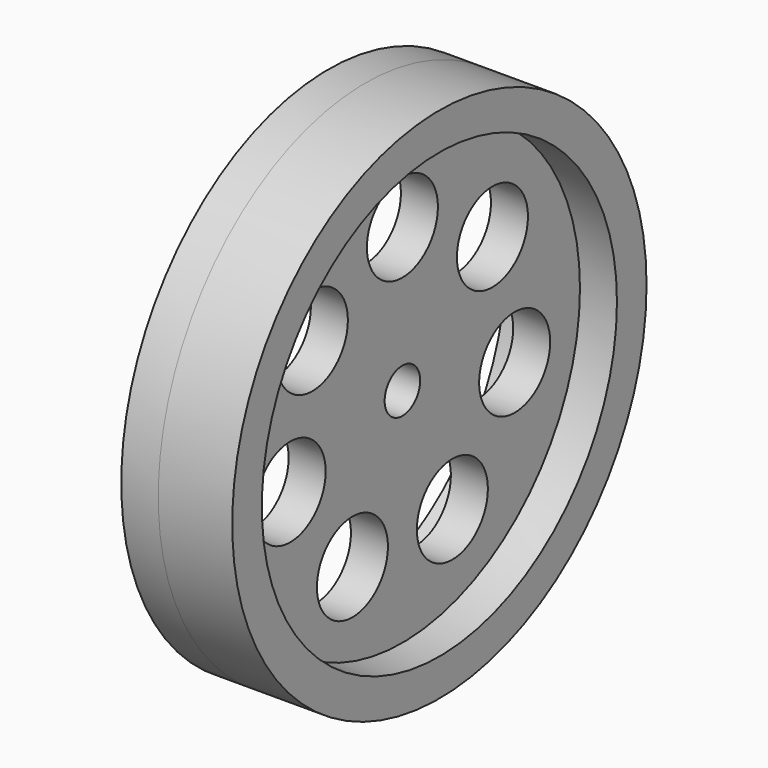
from build123d import *

# Parameters (mm, degrees)
F0_R          = 35
F0_R_2        = 6
F0_R_3        = 3
F1_DEPTH      = 5
F2_R          = 35
F2_R_2        = 30
F3_DEPTH      = 10
F3_DEPTH_BACK = 5


with BuildPart() as f1:
    # F0 (on Right) → F1 (new body)
    with BuildSketch(Plane.YZ):
        Circle(F0_R)
        with Locations((-8.441722, -17.529416)):
            Circle(F0_R_2, mode=Mode.SUBTRACT)
        with Locations((-18.968376, -4.329408)):
            Circle(F0_R_2, mode=Mode.SUBTRACT)
        with Locations((8.441722, -17.529416)):
            Circle(F0_R_2, mode=Mode.SUBTRACT)
        with Locations((18.968376, -4.329408)):
            Circle(F0_R_2, mode=Mode.SUBTRACT)
        with Locations((-15.211457, 12.130732)):
            Circle(F0_R_2, mode=Mode.SUBTRACT)
        Circle(F0_R_3, mode=Mode.SUBTRACT)
        with Locations((15.211457, 12.130732)):
            Circle(F0_R_2, mode=Mode.SUBTRACT)
        with Locations((0, 19.456184)):
            Circle(F0_R_2, mode=Mode.SUBTRACT)
    extrude(amount=F1_DEPTH)

    # F2 (on Right) → F3 (join, two sides)
    with BuildSketch(Plane.YZ) as f3_sk:
        Circle(F2_R)
        Circle(F2_R_2, mode=Mode.SUBTRACT)
    extrude(amount=F3_DEPTH)
    extrude(f3_sk.sketch, amount=-F3_DEPTH_BACK)


solid = f1.part
